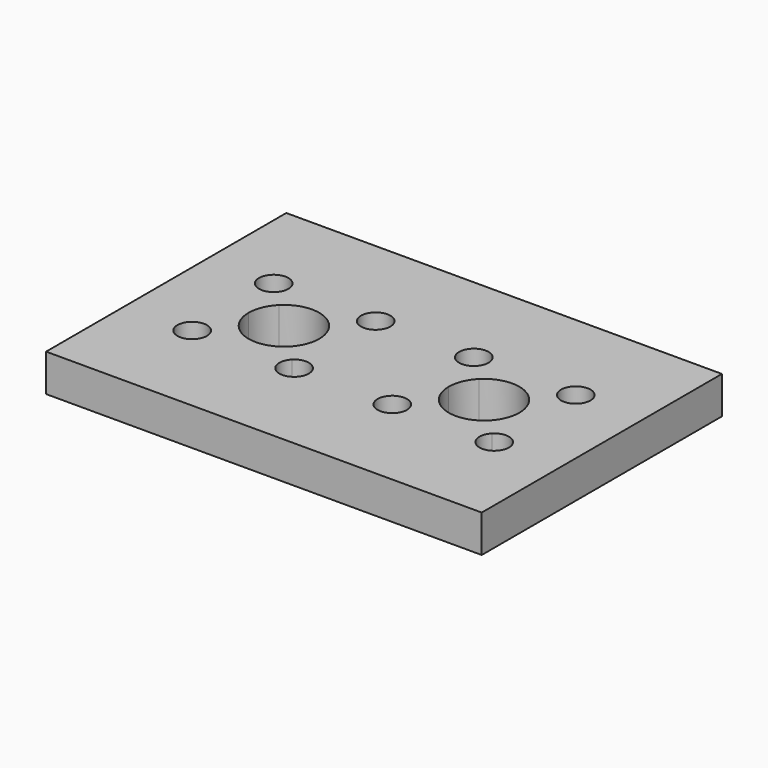
from build123d import *

# Parameters (mm, degrees)
F1_DEPTH = 6.35


with BuildPart() as f1:
    # F0 (on Top) → F1 (new body)
    with BuildSketch(Plane.XY):
        Polygon((-37, 0), (-37, -25.5), (37, -25.5), (37, 25.5), (-37, 25.5), align=None)
        with BuildLine():
            ThreePointArc((-23.155067, -8.656967), (-27.968421, -9.614403), (-23.887856, -6.887856))
            ThreePointArc((-23.887856, -6.887856), (-23.345513, -7.699531), (-23.155067, -8.656967))
        make_face(mode=Mode.SUBTRACT)
        with BuildLine():
            ThreePointArc((-5.841133, -8.656967), (-9.300469, -10.968421), (-10.112144, -6.887856))
            ThreePointArc((-10.112144, -6.887856), (-7.385597, -6.345513), (-5.841133, -8.656967))
        make_face(mode=Mode.SUBTRACT)
        with BuildLine():
            ThreePointArc((10.837533, -8.656967), (6.024179, -9.614403), (10.104744, -6.887856))
            ThreePointArc((10.104744, -6.887856), (10.647087, -7.699531), (10.837533, -8.656967))
        make_face(mode=Mode.SUBTRACT)
        with BuildLine():
            ThreePointArc((28.151467, -8.656967), (24.692131, -10.968421), (23.880456, -6.887856))
            ThreePointArc((23.880456, -6.887856), (26.607003, -6.345513), (28.151467, -8.656967))
        make_face(mode=Mode.SUBTRACT)
        with BuildLine():
            ThreePointArc((-23.162058, 8.662058), (-23.352359, 7.705349), (-23.894291, 6.894291))
            ThreePointArc((-23.894291, 6.894291), (-27.971757, 9.618767), (-23.162058, 8.662058))
        make_face(mode=Mode.SUBTRACT)
        with BuildLine():
            ThreePointArc((-21.242641, -4.242641), (-22.543277, -2.296101), (-23, 0))
            ThreePointArc((-23, 0), (-22.543277, 2.296101), (-21.242641, 4.242641))
            ThreePointArc((-21.242641, 4.242641), (-17, 6), (-12.757359, 4.242641))
            ThreePointArc((-12.757359, 4.242641), (-11.456723, 2.296101), (-11, 0))
            ThreePointArc((-11, 0), (-11.456723, -2.296101), (-12.757359, -4.242641))
            ThreePointArc((-12.757359, -4.242641), (-17, -6), (-21.242641, -4.242641))
        make_face(mode=Mode.SUBTRACT)
        with BuildLine():
            ThreePointArc((-5.841133, 8.656967), (-7.385597, 6.345513), (-10.112144, 6.887856))
            ThreePointArc((-10.112144, 6.887856), (-9.300469, 10.968421), (-5.841133, 8.656967))
        make_face(mode=Mode.SUBTRACT)
        with BuildLine():
            ThreePointArc((12.753919, -4.238681), (11.454497, -2.293958), (10.9982, 0))
            ThreePointArc((10.9982, 0), (11.454497, 2.293958), (12.753919, 4.238681))
            ThreePointArc((12.753919, 4.238681), (16.9926, 5.9944), (21.231281, 4.238681))
            ThreePointArc((21.231281, 4.238681), (22.530703, 2.293958), (22.987, 0))
            ThreePointArc((22.987, 0), (22.530703, -2.293958), (21.231281, -4.238681))
            ThreePointArc((21.231281, -4.238681), (16.9926, -5.9944), (12.753919, -4.238681))
        make_face(mode=Mode.SUBTRACT)
        with BuildLine():
            ThreePointArc((10.832442, 8.662058), (10.641996, 7.704622), (10.099652, 6.892948))
            ThreePointArc((10.099652, 6.892948), (6.019088, 9.619494), (10.832442, 8.662058))
        make_face(mode=Mode.SUBTRACT)
        with BuildLine():
            ThreePointArc((28.151467, 8.656967), (26.607003, 6.345513), (23.880456, 6.887856))
            ThreePointArc((23.880456, 6.887856), (24.692131, 10.968421), (28.151467, 8.656967))
        make_face(mode=Mode.SUBTRACT)
    extrude(amount=F1_DEPTH)


solid = f1.part
